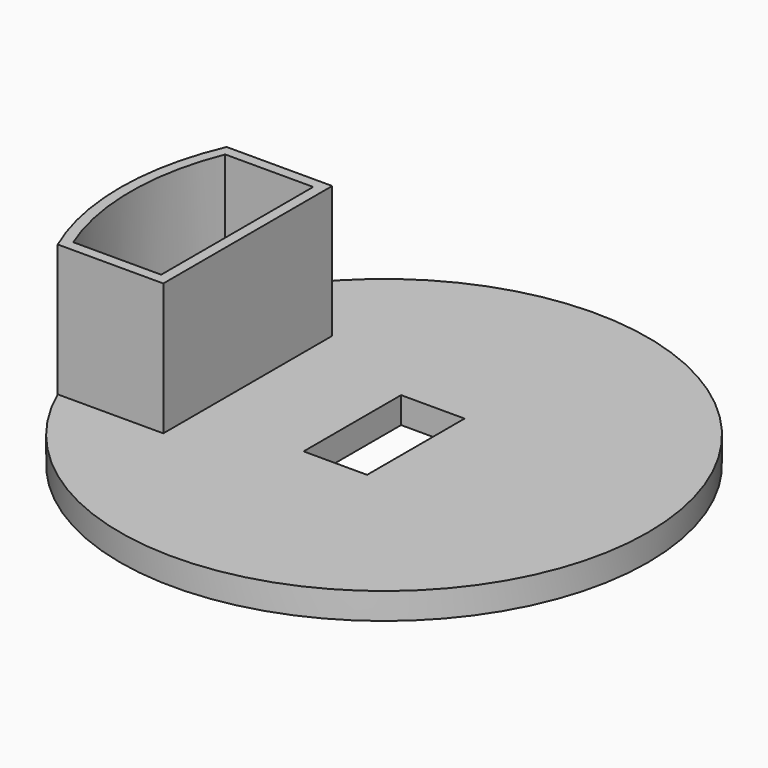
from build123d import *

# Parameters (mm, degrees)
F0_R      = 50
F1_DEPTH  = 5
F3_DEPTH  = 25
F4_T      = -2
F6_W      = 10
F6_H      = 3
F7_DEPTH  = 3
F8_W      = 12.0332203805
F8_H      = 23.0855867267
F9_DEPTH  = 25
F10_R     = 50
F10_W     = 12.0332203805
F10_H     = 23.0855867267
F11_DEPTH = 5


with BuildPart() as f1:
    # F0 (on Top) → F1 (new body)
    with BuildSketch(Plane.XY):
        Circle(F0_R)
    extrude(amount=F1_DEPTH)

    # F2 (on face) → F3 (join)
    with BuildSketch(Plane.XY.offset(5)):
        with BuildLine():
            Line((-25.8257569496, 20), (-45.8257569496, 20))
            ThreePointArc((-45.8257569496, 20), (-50, 0), (-45.8257569496, -20))
            Line((-45.8257569496, -20), (-25.8257569496, -20))
            Line((-25.8257569496, -20), (-25.8257569496, 20))
        make_face()
    extrude(amount=F3_DEPTH)

    # F4
    f4_openings = [f1.faces().sort_by_distance(p)[0] for p in [
        (-37.262739, 0, 30),
    ]]
    offset(amount=F4_T, openings=f4_openings)

    # F6 (on offset) → F7 (cut)
    with BuildSketch(Plane.YZ.offset(-50)):
        with Locations((0, 9.5)):
            Rectangle(F6_W, F6_H)
    extrude(amount=F7_DEPTH, mode=Mode.SUBTRACT)

    # F8 (on face) → F9 (cut)
    with BuildSketch(Plane.XY.offset(5)):
        Rectangle(F8_W, F8_H)
    extrude(amount=-F9_DEPTH, mode=Mode.SUBTRACT)

    # F10 (on face) → F11 (join)
    with BuildSketch(Plane(origin=(0, 0, 0), x_dir=(1, 0, 0), z_dir=(0, 0, -1))):
        Circle(F10_R)
        Rectangle(F10_W, F10_H, mode=Mode.SUBTRACT)
    extrude(amount=-F11_DEPTH)


solid = f1.part
